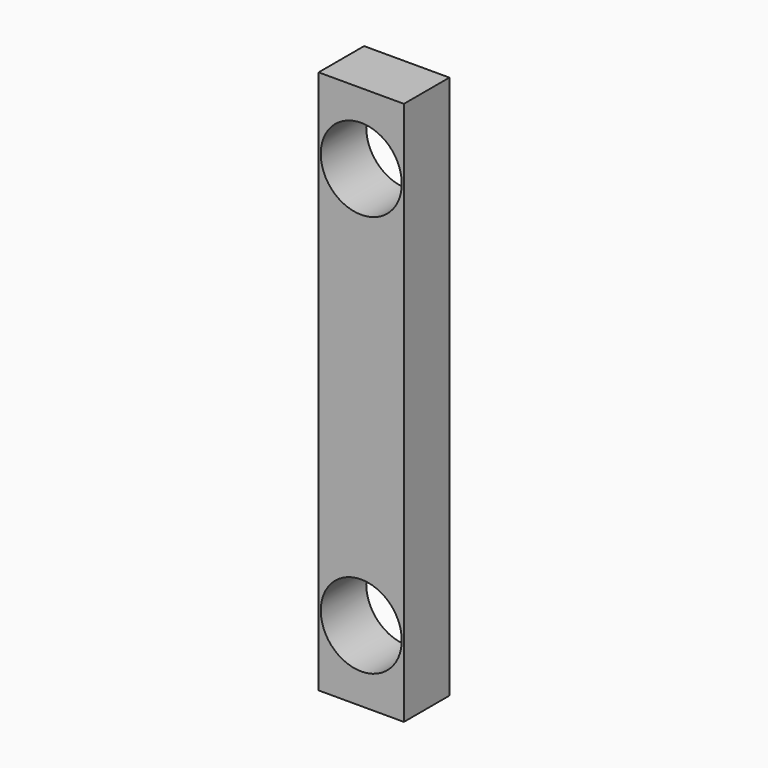
from build123d import *

# Parameters (mm, degrees)
F0_W     = 7.62
F0_H     = 48.62068
F1_DEPTH = 5.08
F4_D     = 7.239
F5_D     = 7.239


with BuildPart() as f1:
    # F0 (on Front) → F1 (new body)
    with BuildSketch(Plane.XZ):
        with Locations((-3.7611387034, 15.5314761981)):
            Rectangle(F0_W, F0_H)
    extrude(amount=F1_DEPTH)

    # F4 (through all)
    with Locations(Plane.XZ.offset(5.08)):
        with Locations((-3.7611387034, 33.4918161981)):
            Hole(F4_D / 2)

    # F5 (through all)
    with Locations(Plane(origin=(0, 0, 0), x_dir=(1, 0, 0), z_dir=(0, 1, 0))):
        with Locations((-3.7611387034, 2.4288638019)):
            Hole(F5_D / 2)


solid = f1.part
